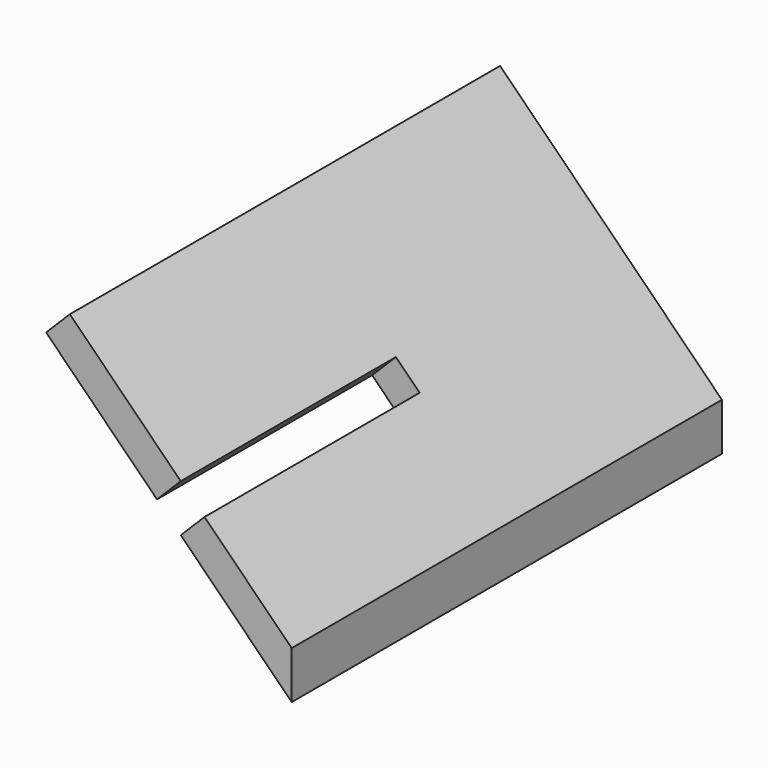
from build123d import *

# Parameters (mm, degrees)
F1_DEPTH = 152.4
F2_W     = 19.05
F2_H     = 152.4
F3_DEPTH = 19.05


with BuildPart() as f1:
    # F0 (on Front) → F1 (new body, symmetric)
    with BuildSketch(Plane.XZ):
        Polygon((239.3357296876, 273.8439301559), (378.5296995641, 134.6499602793), (378.5296995641, 161.5907286425), (252.8061138692, 287.3143143375), align=None)
    extrude(amount=F1_DEPTH, both=True)

    # F2 (on face) → F3 (cut)
    with BuildSketch(Plane(origin=(270.0602141033, 0, 270.0602141033), x_dir=(0.7071067812, 0, -0.7071067812), z_dir=(0.7071067812, 0, 0.7071067812))):
        with Locations((74.0240174423, -76.2)):
            Rectangle(F2_W, F2_H)
    extrude(amount=-F3_DEPTH, mode=Mode.SUBTRACT)


solid = f1.part
